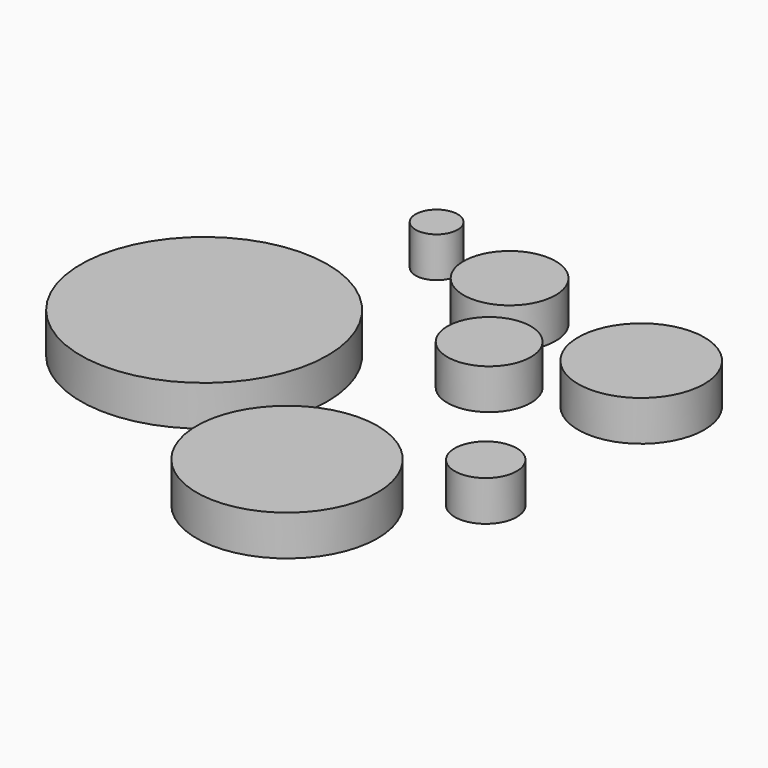
from build123d import *

# Parameters (mm, degrees)
F0_R     = 13.032105
F0_R_2   = 28.526569
F0_R_3   = 39.130326
F0_R_4   = 25.861755
F0_R_5   = 76.490327
F0_R_6   = 19.235891
F0_R_7   = 56.020621
F1_DEPTH = 25


with BuildPart() as f1:
    # F0 (on Top) → F1 (new body)
    with BuildSketch(Plane.XY):
        with Locations((-79.136088, 87.388523)):
            Circle(F0_R)
        with Locations((-14.774912, 63.456163)):
            Circle(F0_R_2)
        with Locations((88.963054, 35.74479)):
            Circle(F0_R_3)
        with Locations((19.074412, 5.306198)):
            Circle(F0_R_4)
        with Locations((-109.40177, -54.87778)):
            Circle(F0_R_5)
        with Locations((95.085837, -92.321746)):
            Circle(F0_R_6)
        with Locations((19.661089, -151.977509)):
            Circle(F0_R_7)
    extrude(amount=F1_DEPTH)


solid = f1.part
